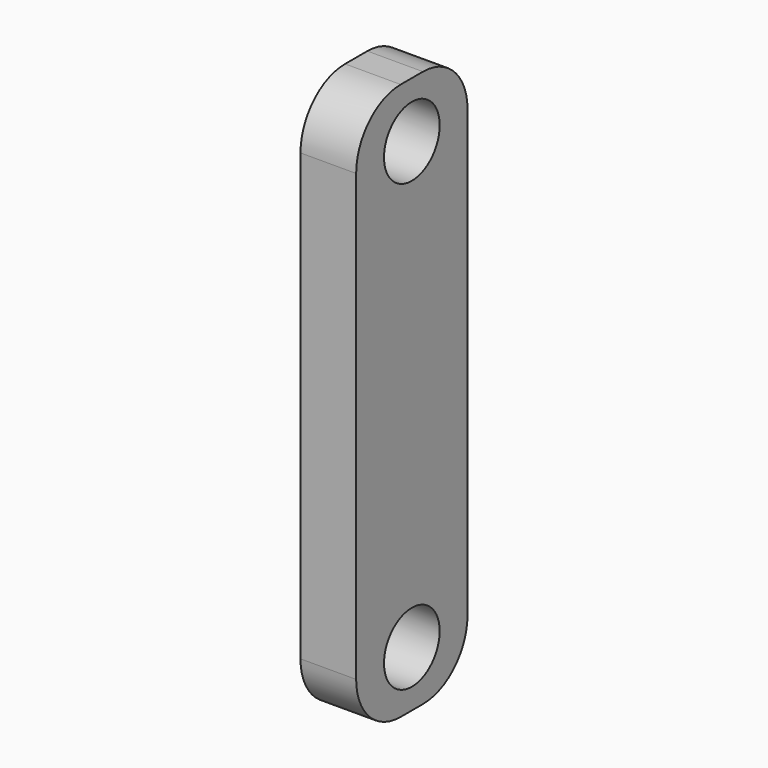
from build123d import *

# Parameters (mm, degrees)
F0_R     = 1.5875
F1_DEPTH = 2.54


with BuildPart() as f1:
    # F0 (on Right) → F1 (new body)
    with BuildSketch(Plane.YZ):
        with BuildLine():
            ThreePointArc((3.175, 10.16), (2.431051, 11.956051), (0.635, 12.7))
            Line((0.635, 12.7), (-0.635, 12.7))
            ThreePointArc((-0.635, 12.7), (-2.431051, 11.956051), (-3.175, 10.16))
            Line((-3.175, 10.16), (-3.175, -10.16))
            ThreePointArc((-3.175, -10.16), (-2.431051, -11.956051), (-0.635, -12.7))
            Line((-0.635, -12.7), (0.635, -12.7))
            ThreePointArc((0.635, -12.7), (2.431051, -11.956051), (3.175, -10.16))
            Line((3.175, -10.16), (3.175, 10.16))
        make_face()
        with Locations((0, -10.16)):
            Circle(F0_R, mode=Mode.SUBTRACT)
        with Locations((0, 10.16)):
            Circle(F0_R, mode=Mode.SUBTRACT)
    extrude(amount=F1_DEPTH)


solid = f1.part
